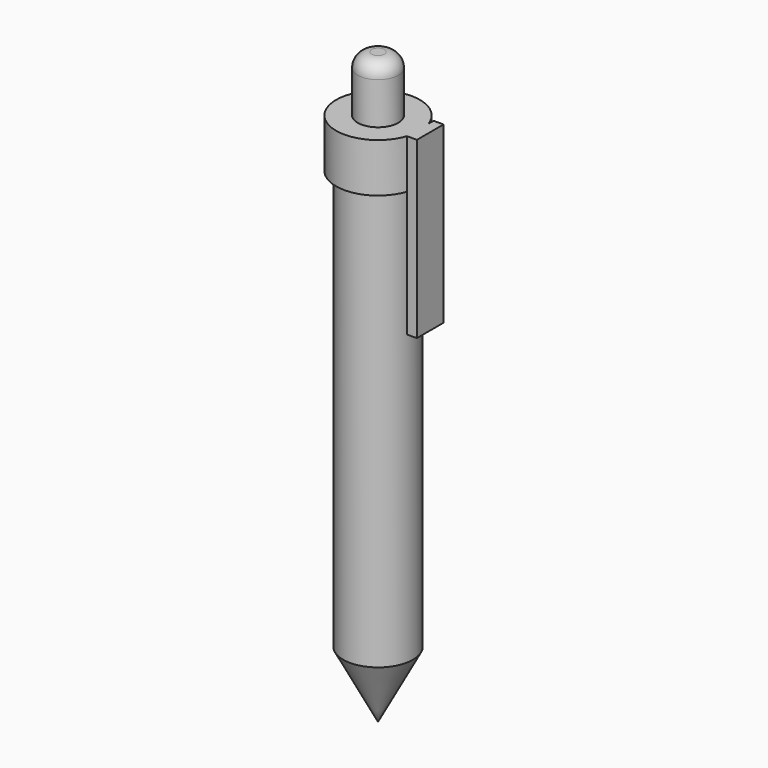
from build123d import *

# Parameters (mm, degrees)
F0_R     = 5
F1_DEPTH = 60
F4_R     = 6
F5_DEPTH = 7
F6_W     = 1.418485
F6_H     = 4.770194
F7_DEPTH = 25
F8_R     = 2.908014
F9_DEPTH = 8
F10_R    = 2


with BuildPart() as f1:
    # F0 (on Top) → F1 (new body)
    with BuildSketch(Plane.XY):
        Circle(F0_R)
    extrude(amount=F1_DEPTH)


with BuildPart() as f3:
    # F2 (on Right) → F3 (revolve)
    with BuildSketch(Plane.YZ):
        Polygon((0, -9.468908), (0, 0), (-5, 0), align=None)
    revolve(axis=Axis((0, 0, -4.734454), (0, 0, 1)))


with BuildPart() as f5:
    # F4 (on face) → F5 (new body)
    with BuildSketch(Plane.XY.offset(60)):
        Circle(F4_R)
    extrude(amount=F5_DEPTH)

    # F6 (on face) → F7 (join)
    with BuildSketch(Plane.XY.offset(67)):
        with Locations((6.393168, 0.463383)):
            Rectangle(F6_W, F6_H)
    extrude(amount=-F7_DEPTH)


with BuildPart() as f9:
    # F8 (on face) → F9 (new body)
    with BuildSketch(Plane.XY.offset(67)):
        Circle(F8_R)
    extrude(amount=F9_DEPTH)

    # F10
    f10_edges = [f9.edges().sort_by_distance(p)[0] for p in [
        (-2.908014, 0, 75),
    ]]
    fillet(f10_edges, radius=F10_R)


solid = Compound([f1.part, f3.part, f5.part, f9.part])
